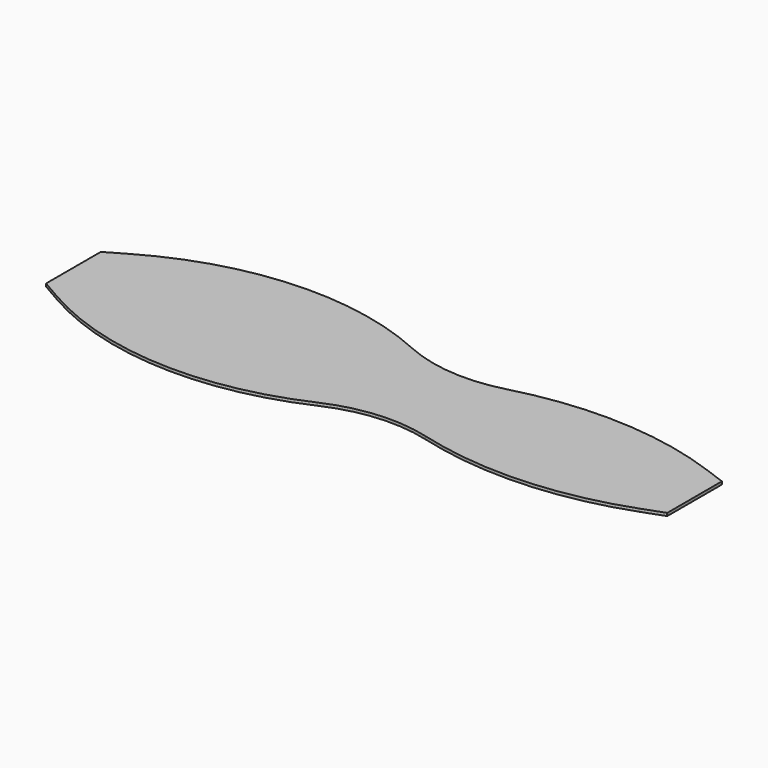
from build123d import *

# Parameters (mm, degrees)
F1_DEPTH = 3.175


with BuildPart() as f1:
    # F0 (on Top) → F1 (new body)
    with BuildSketch(Plane.XY):
        with BuildLine():
            Line((692.15, 0), (0, 0))
            Line((0, 0), (0, -38.1))
            Line((0, -38.1), (21.997045, -50.8))
            ThreePointArc((21.997045, -50.8), (171.52798, -94.846463), (324.670101, -65.741782))
            ThreePointArc((324.670101, -65.741782), (380.415254, -51.34462), (437.747872, -56.614474))
            ThreePointArc((437.747872, -56.614474), (553.773706, -69.50302), (668.281807, -46.787312))
            Line((668.281807, -46.787312), (692.15, -38.1))
            Line((692.15, -38.1), (692.15, 0))
        make_face()
    extrude(amount=F1_DEPTH)

    # F2: F1 across plane


with BuildPart() as f1_1:
    add(f1.part)
    add(f1.part.mirror(Plane.XZ))


solid = f1_1.part
